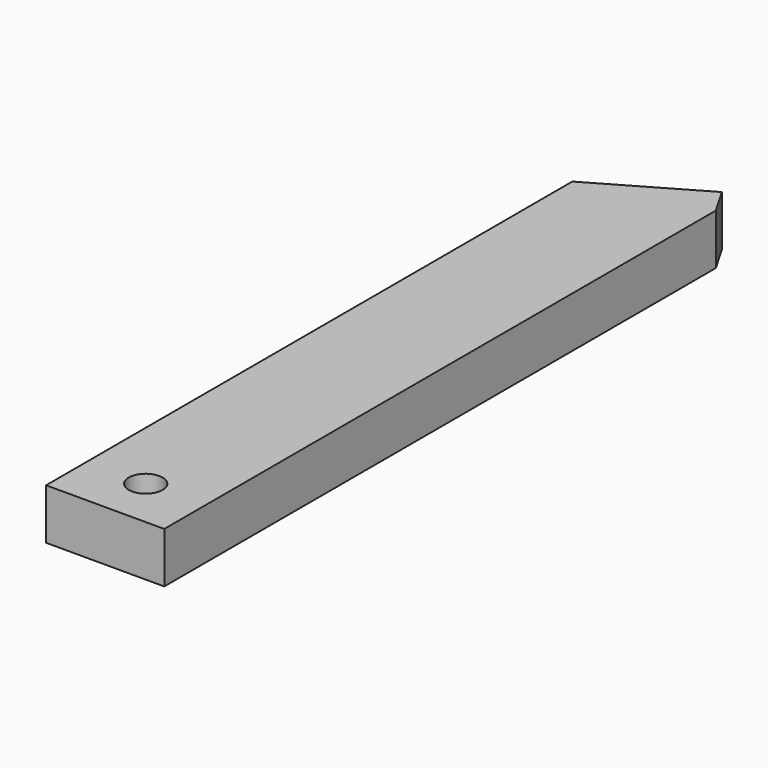
from build123d import *

# Parameters (mm, degrees)
F1_DEPTH = 19.05
F3_DEPTH = 38.101
F4_R     = 12.7
F5_DEPTH = 38.101


with BuildPart() as f1:
    # F0 (on Top) → F1 (new body, symmetric)
    with BuildSketch(Plane.XY):
        Polygon((0, 0), (-88.9, -51.326438931), (-88.9, -546.1), (0, -546.1), align=None)
    extrude(amount=F1_DEPTH, both=True)

    # F2 (on face) → F3 (cut, through all)
    with BuildSketch(Plane.XY.offset(19.05)):
        Polygon((0, -27.5057557238), (0, 0), (-11.9103416036, -6.876438931), align=None)
    extrude(amount=-F3_DEPTH, mode=Mode.SUBTRACT)

    # F4 (on face) → F5 (cut, through all)
    with BuildSketch(Plane.XY.offset(19.05)):
        with Locations((-44.45, -508)):
            Circle(F4_R)
    extrude(amount=-F5_DEPTH, mode=Mode.SUBTRACT)


solid = f1.part
